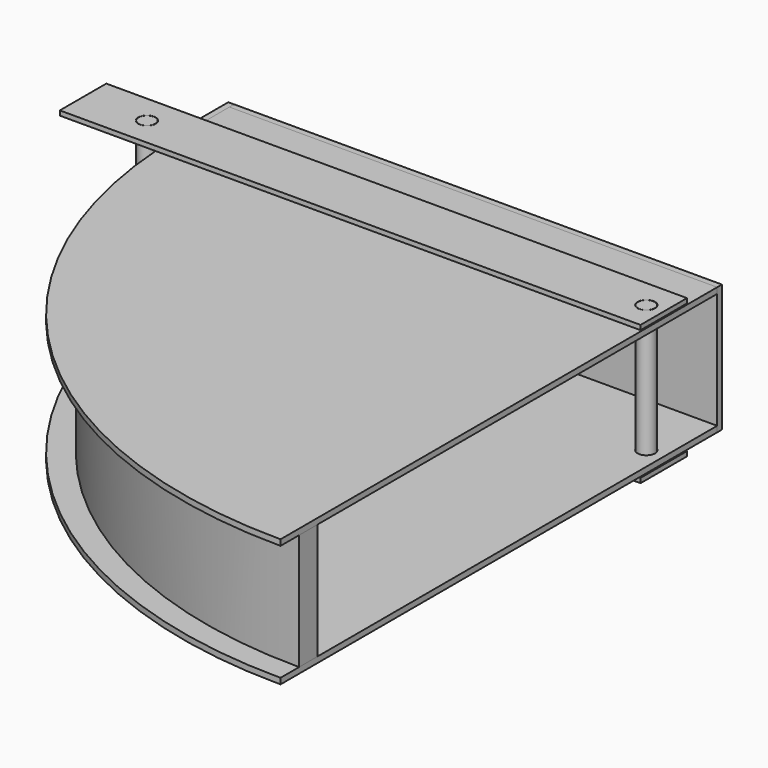
from build123d import *

# Parameters (mm, degrees)
F0_W      = 20
F0_H      = 50
F1_DEPTH  = 100
F4_DEPTH  = 5
F6_W      = 420
F6_H      = 50
F7_DEPTH  = 5
F9_W      = 420
F9_H      = 110
F10_DEPTH = 5.1
F11_R     = 7.5
F12_DEPTH = 110.001
F14_R     = 7.25
F15_DEPTH = 120
F17_W     = 500
F17_H     = 50
F17_R     = 7.5
F18_DEPTH = 4
F24_W     = 55
F24_H     = 110
F25_DEPTH = 5


with BuildPart() as f1:
    # F0 (on Top) → F1 (new body)
    with BuildSketch(Plane.XY):
        with BuildLine():
            ThreePointArc((0, -380), (-268.7005768509, -268.7005768509), (-380, 0))
            Line((-380, 0), (-400, 0))
            ThreePointArc((-400, 0), (-282.8427124746, -282.8427124746), (0, -400))
            Line((0, -400), (0, -380))
        make_face()
        with Locations((-390, 25)):
            Rectangle(F0_W, F0_H)
    extrude(amount=F1_DEPTH)


with BuildPart() as f4:
    # F3 (on offset) → F4 (new body)
    with BuildSketch(Plane(origin=(0, 0, 0), x_dir=(1, 0, 0), z_dir=(0, 0, -1))):
        with BuildLine():
            Line((-400, 0), (0, 0))
            Line((0, 0), (0, 400))
            ThreePointArc((0, 400), (-282.8427124746, 282.8427124746), (-400, 0))
        make_face()
        Polygon((0, -50), (0, 0), (-400, 0), (-420, 0), (-420, -50), align=None)
        with BuildLine():
            ThreePointArc((-400, 0), (-282.8427124746, 282.8427124746), (0, 400))
            Line((0, 400), (0, 420))
            ThreePointArc((0, 420), (-296.9848480984, 296.9848480984), (-420, 0))
            Line((-420, 0), (-400, 0))
        make_face()
    extrude(amount=F4_DEPTH)


with BuildPart() as f7:
    # F6 (on offset) → F7 (new body)
    with BuildSketch(Plane.XY.offset(100)):
        with BuildLine():
            Line((0, -420), (0, 0))
            Line((0, 0), (-420, 0))
            ThreePointArc((-420, 0), (-296.9848480984, -296.9848480984), (0, -420))
        make_face()
        with Locations((-210, 25)):
            Rectangle(F6_W, F6_H)
    extrude(amount=F7_DEPTH)


with BuildPart() as f10:
    # F9 (on offset) → F10 (new body)
    with BuildSketch(Plane(origin=(0, 50, 0), x_dir=(-1, 0, 0), z_dir=(0, 1, 0))):
        with Locations((210, 50)):
            Rectangle(F9_W, F9_H)
    extrude(amount=F10_DEPTH)


with BuildPart() as f12_tool:
    # F11 (on face) → F12 (new body, through all)
    with BuildSketch(Plane.XY.offset(105)):
        with Locations((-15, -7.5)):
            Circle(F11_R)
    extrude(amount=-F12_DEPTH)


with BuildPart() as f4_1:
    add(f4.part)

    # F12: cut by f12_tool
    add(f12_tool.part, mode=Mode.SUBTRACT)


with BuildPart() as f7_1:
    add(f7.part)

    # F12: cut by f12_tool
    add(f12_tool.part, mode=Mode.SUBTRACT)


with BuildPart() as f15:
    # F14 (on offset) → F15 (new body)
    with BuildSketch(Plane.XY.offset(110)):
        with Locations((-15, -7.5)):
            Circle(F14_R)
    extrude(amount=-F15_DEPTH)


with BuildPart() as f18:
    # F17 (on offset) → F18 (new body)
    with BuildSketch(Plane.XY.offset(110)):
        with Locations((-250, -7.5)):
            Rectangle(F17_W, F17_H)
        with Locations((-445, -7.5)):
            Circle(F17_R, mode=Mode.SUBTRACT)
        with Locations((-15, -7.5)):
            Circle(F17_R, mode=Mode.SUBTRACT)
    extrude(amount=-F18_DEPTH)


with BuildPart() as f20_1:
    # F20: instance of F18
    add(f18.part.mirror(Plane(origin=(-259.0259524442, -227.7104241093, 50), x_dir=(1, 0, 0), z_dir=(0, 0, 1))))


with BuildPart() as f22_1:
    # F22: instance of F15
    add(f15.part.mirror(Plane(origin=(-230, -185, 102.5), x_dir=(0, 1, 0), z_dir=(1, 0, 0))))


with BuildPart() as f25:
    # F24 (on offset) → F25 (new body)
    with BuildSketch(Plane(origin=(-420, 0, 0), x_dir=(0, -1, 0), z_dir=(-1, 0, 0))):
        with Locations((-27.5, 50)):
            Rectangle(F24_W, F24_H)
    extrude(amount=F25_DEPTH)


solid = Compound([f1.part, f10.part, f4_1.part, f7_1.part, f15.part, f18.part, f20_1.part, f22_1.part, f25.part])
